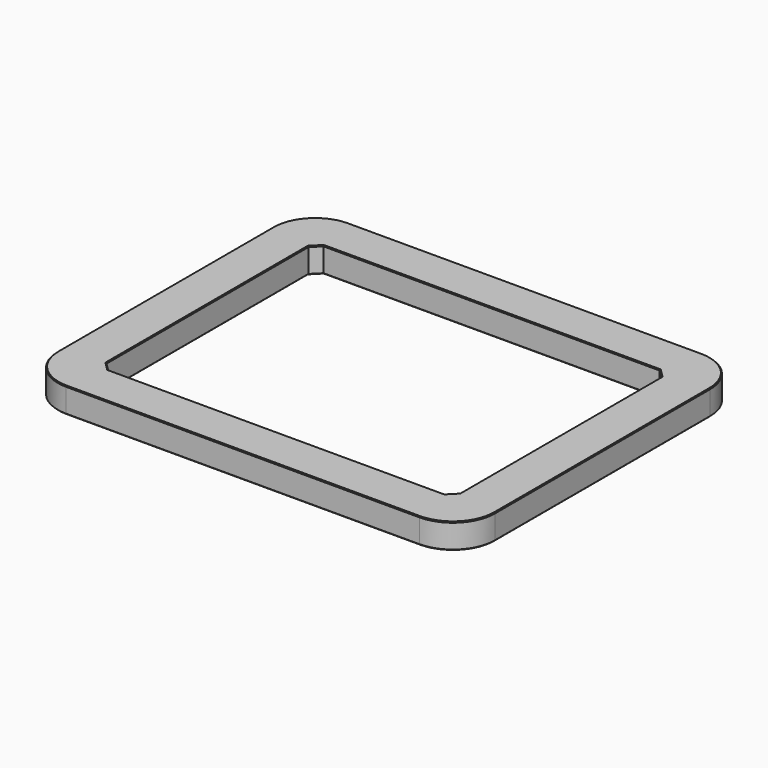
from build123d import *

# Parameters (mm, degrees)
F0_W     = 52
F0_H     = 42
F0_W_2   = 42
F0_H_2   = 32
F1_DEPTH = 3
F2_R     = 5
F3_SIZE2 = 1
F3_SIZE  = 1
F4_SIZE  = 1
F5_SIZE  = 0.1


with BuildPart() as f1:
    # F0 (on Top) → F1 (new body)
    with BuildSketch(Plane.XY):
        Rectangle(F0_W, F0_H)
        Rectangle(F0_W_2, F0_H_2, mode=Mode.SUBTRACT)
    extrude(amount=F1_DEPTH)

    # F2
    f2_edges = [f1.edges().sort_by_distance(p)[0] for p in [
        (-26, 21, 1.5),
        (-26, -21, 1.5),
        (26, -21, 1.5),
        (26, 21, 1.5),
    ]]
    fillet(f2_edges, radius=F2_R)

    # F3
    f3_edges = [f1.edges().sort_by_distance(p)[0] for p in [
        (-21, 16, 1.5),
    ]]
    chamfer(f3_edges, length=F3_SIZE, length2=F3_SIZE2)

    # F4
    f4_edges = [f1.edges().sort_by_distance(p)[0] for p in [
        (21, 16, 1.5),
        (21, -16, 1.5),
        (-21, -16, 1.5),
    ]]
    chamfer(f4_edges, length=F4_SIZE)

    # F5
    f5_edges = [f1.edges().sort_by_distance(p)[0] for p in [
        (-21, 0, 3),
        (-20.5, -15.5, 3),
        (-20.5, 15.5, 3),
        (0, -16, 3),
        (0, 16, 3),
        (20.5, -15.5, 3),
        (20.5, 15.5, 3),
        (21, 0, 3),
        (0, 21, 3),
        (24.535534, 19.535534, 3),
        (-24.535534, 19.535534, 3),
        (26, 0, 3),
        (-26, 0, 3),
        (24.535534, -19.535534, 3),
        (-24.535534, -19.535534, 3),
        (0, -21, 3),
        (-21, 0, 0),
        (-20.5, -15.5, 0),
        (-20.5, 15.5, 0),
        (0, -16, 0),
        (0, 16, 0),
        (20.5, -15.5, 0),
        (20.5, 15.5, 0),
        (21, 0, 0),
        (0, 21, 0),
        (24.535534, 19.535534, 0),
        (-24.535534, 19.535534, 0),
        (26, 0, 0),
        (-26, 0, 0),
        (24.535534, -19.535534, 0),
        (-24.535534, -19.535534, 0),
        (0, -21, 0),
    ]]
    chamfer(f5_edges, length=F5_SIZE)


solid = f1.part
